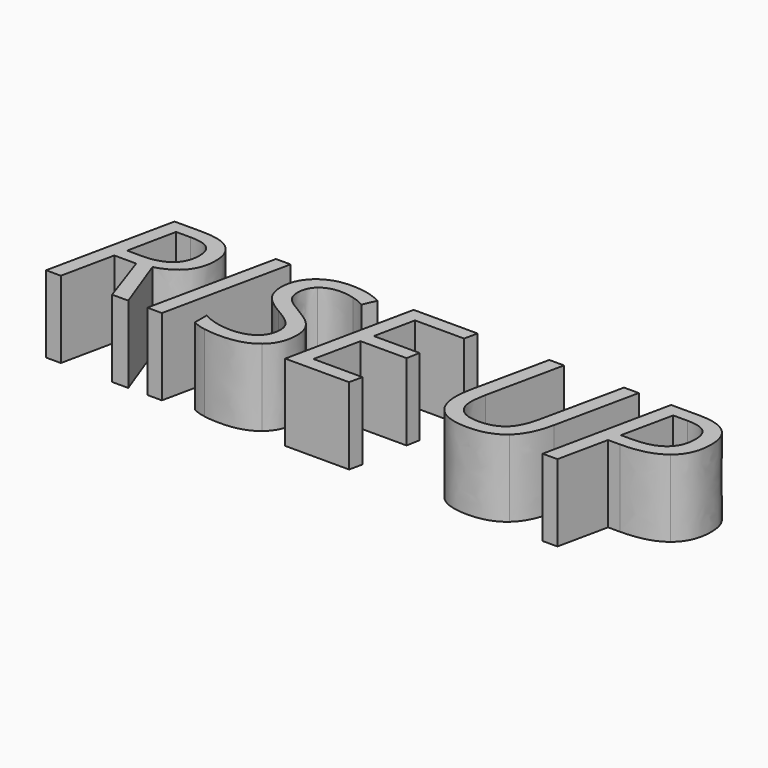
from build123d import *

# Parameters (mm, degrees)
F2_DEPTH = 25.4


with BuildPart() as f2:
    # F1 (on face) → F2 (new body)
    with BuildSketch(Plane.XY):
        Polygon((90.3345299513, -0.3582152179), (81.4709995595, -42.3245057464), (102.5689573936, -42.3245057464), (103.5150129691, -37.9616280924), (87.2942931019, -37.9616280924), (90.564155091, -22.5767437336), (105.7561543324, -22.5767437336), (106.5828048352, -18.2138660797), (91.4551006329, -18.2138660797), (94.2748973482, -4.7486478886), (110.5139872266, -4.7486478886), (111.4324877854, -0.3582152179), align=None)
    extrude(amount=F2_DEPTH)


with BuildPart() as f2b:
    # F1 (on face) → F2, piece 2 (new body)
    with BuildSketch(Plane.XY):
        with BuildLine():
            add(Edge.make_bspline(
                [(75.6936310451, -30.1543733432), (75.6936310451, -36.2072920252), (71.6614135923, -39.5552265618)],
                knots=[0, 0, 0, 1, 1, 1], degree=2))
            add(Edge.make_bspline(
                [(74.9358680841, -26.1221558903), (75.6936310451, -27.8581219463), (75.6936310451, -30.1543733432)],
                knots=[0, 0, 0, 1, 1, 1], degree=2))
            add(Edge.make_bspline(
                [(72.6993192236, -22.9487364599), (74.1781051232, -24.3861898343), (74.9358680841, -26.1221558903)],
                knots=[0, 0, 0, 1, 1, 1], degree=2))
            add(Edge.make_bspline(
                [(66.9954307539, -18.985406549), (71.2205333241, -21.5112830855), (72.6993192236, -22.9487364599)],
                knots=[0, 0, 0, 1, 1, 1], degree=2))
            add(Edge.make_bspline(
                [(62.9218807759, -16.2620523923), (63.9827489213, -17.2402554874), (66.9954307539, -18.985406549)],
                knots=[0, 0, 0, 1, 1, 1], degree=2))
            add(Edge.make_bspline(
                [(61.3742073345, -14.1816486268), (61.8610126306, -15.2838492973), (62.9218807759, -16.2620523923)],
                knots=[0, 0, 0, 1, 1, 1], degree=2))
            add(Edge.make_bspline(
                [(60.8874020383, -11.5271820121), (60.8874020383, -13.0794479563), (61.3742073345, -14.1816486268)],
                knots=[0, 0, 0, 1, 1, 1], degree=2))
            add(Edge.make_bspline(
                [(63.2249859603, -6.1172137212), (60.8874020383, -8.1103599336), (60.8874020383, -11.5271820121)],
                knots=[0, 0, 0, 1, 1, 1], degree=2))
            add(Edge.make_bspline(
                [(69.4110872234, -4.1240675087), (65.5625698823, -4.1240675087), (63.2249859603, -6.1172137212)],
                knots=[0, 0, 0, 1, 1, 1], degree=2))
            add(Edge.make_bspline(
                [(73.7418173578, -4.7532403914), (71.3858634246, -4.1240675087), (69.4110872234, -4.1240675087)],
                knots=[0, 0, 0, 1, 1, 1], degree=2))
            add(Edge.make_bspline(
                [(77.9898824419, -6.4754289391), (76.0977712909, -5.3824132742), (73.7418173578, -4.7532403914)],
                knots=[0, 0, 0, 1, 1, 1], degree=2))
            Line((77.9898824419, -6.4754289391), (79.8819935929, -2.1676613186))
            add(Edge.make_bspline(
                [(74.7062429445, -0.3031051844), (77.1632319391, -0.845020514), (79.8819935929, -2.1676613186)],
                knots=[0, 0, 0, 1, 1, 1], degree=2))
            add(Edge.make_bspline(
                [(69.4110872234, 0.2388101453), (72.2492539498, 0.2388101453), (74.7062429445, -0.3031051844)],
                knots=[0, 0, 0, 1, 1, 1], degree=2))
            add(Edge.make_bspline(
                [(59.4499486639, -3.1320869053), (63.2387634687, 0.2388101453), (69.4110872234, 0.2388101453)],
                knots=[0, 0, 0, 1, 1, 1], degree=2))
            add(Edge.make_bspline(
                [(55.6611338592, -11.8670272188), (55.6611338592, -6.5029839558), (59.4499486639, -3.1320869053)],
                knots=[0, 0, 0, 1, 1, 1], degree=2))
            add(Edge.make_bspline(
                [(57.3419898816, -17.6398032304), (55.6611338592, -15.201184247), (55.6611338592, -11.8670272188)],
                knots=[0, 0, 0, 1, 1, 1], degree=2))
            add(Edge.make_bspline(
                [(63.3489835357, -22.5216337001), (59.0228459041, -20.0784222139), (57.3419898816, -17.6398032304)],
                knots=[0, 0, 0, 1, 1, 1], degree=2))
            add(Edge.make_bspline(
                [(68.9610219496, -26.5538511529), (67.4546810333, -24.8454401137), (63.3489835357, -22.5216337001)],
                knots=[0, 0, 0, 1, 1, 1], degree=2))
            add(Edge.make_bspline(
                [(70.4673628659, -30.4942185499), (70.4673628659, -28.2622621922), (68.9610219496, -26.5538511529)],
                knots=[0, 0, 0, 1, 1, 1], degree=2))
            add(Edge.make_bspline(
                [(67.7440087093, -36.4552871761), (70.4673628659, -34.2876258575), (70.4673628659, -30.4942185499)],
                knots=[0, 0, 0, 1, 1, 1], degree=2))
            add(Edge.make_bspline(
                [(60.3638567199, -38.6229484947), (65.0206545526, -38.6229484947), (67.7440087093, -36.4552871761)],
                knots=[0, 0, 0, 1, 1, 1], degree=2))
            add(Edge.make_bspline(
                [(50.6093807861, -36.2072920252), (55.2569936133, -38.6229484947), (60.3638567199, -38.6229484947)],
                knots=[0, 0, 0, 1, 1, 1], degree=2))
            Line((50.6093807861, -36.2072920252), (50.6093807861, -41.0937149977))
            add(Edge.make_bspline(
                [(54.9584809317, -42.4852433441), (52.6484520265, -42.0673255899), (50.6093807861, -41.0937149977)],
                knots=[0, 0, 0, 1, 1, 1], degree=2))
            add(Edge.make_bspline(
                [(60.3087466863, -42.9031610984), (57.2685098369, -42.9031610984), (54.9584809317, -42.4852433441)],
                knots=[0, 0, 0, 1, 1, 1], degree=2))
            add(Edge.make_bspline(
                [(71.6614135923, -39.5552265618), (67.6291961394, -42.9031610984), (60.3087466863, -42.9031610984)],
                knots=[0, 0, 0, 1, 1, 1], degree=2))
        make_face()
    extrude(amount=F2_DEPTH)


with BuildPart() as f2c:
    # F1 (on face) → F2, piece 3 (new body)
    with BuildSketch(Plane.XY):
        Polygon((49.6633252106, -0.3582152179), (44.8411972773, -0.3582152179), (35.9133718464, -42.3245057464), (40.7354997798, -42.3245057464), align=None)
    extrude(amount=F2_DEPTH)


with BuildPart() as f2d:
    # F1 (on face) → F2, piece 4 (new body)
    with BuildSketch(Plane.XY):
        with BuildLine():
            add(Edge.make_bspline(
                [(158.8271166159, -28.087747086), (157.2472956549, -35.6378216788), (153.1599681685, -39.2704913886)],
                knots=[0, 0, 0, 1, 1, 1], degree=2))
            Line((158.8271166159, -28.087747086), (164.7147051974, -0.3582152179))
            Line((164.7147051974, -0.3582152179), (159.8374672305, -0.3582152179))
            Line((159.8374672305, -0.3582152179), (153.949878649, -27.7387168737))
            add(Edge.make_bspline(
                [(149.9498087158, -36.055739433), (152.6915328836, -33.5436404049), (153.949878649, -27.7387168737)],
                knots=[0, 0, 0, 1, 1, 1], degree=2))
            add(Edge.make_bspline(
                [(142.266551542, -38.5678384612), (147.208084548, -38.5678384612), (149.9498087158, -36.055739433)],
                knots=[0, 0, 0, 1, 1, 1], degree=2))
            add(Edge.make_bspline(
                [(136.011562737, -36.6298022822), (138.1057440109, -38.5678384612), (142.266551542, -38.5678384612)],
                knots=[0, 0, 0, 1, 1, 1], degree=2))
            add(Edge.make_bspline(
                [(133.9173814631, -31.3300540583), (133.9173814631, -34.6917661033), (136.011562737, -36.6298022822)],
                knots=[0, 0, 0, 1, 1, 1], degree=2))
            add(Edge.make_bspline(
                [(134.5511468486, -25.9384557786), (133.9173814631, -28.978692628), (133.9173814631, -31.3300540583)],
                knots=[0, 0, 0, 1, 1, 1], degree=2))
            Line((134.5511468486, -25.9384557786), (140.0254101787, -0.3582152179))
            Line((140.0254101787, -0.3582152179), (135.1481722118, -0.3582152179))
            Line((135.1481722118, -0.3582152179), (129.7290189153, -25.5618705495))
            add(Edge.make_bspline(
                [(129.0401434962, -31.3300540583), (129.0401434962, -29.0062476448), (129.7290189153, -25.5618705495)],
                knots=[0, 0, 0, 1, 1, 1], degree=2))
            add(Edge.make_bspline(
                [(132.2227479322, -39.9134417797), (129.0401434962, -36.923722461), (129.0401434962, -31.3300540583)],
                knots=[0, 0, 0, 1, 1, 1], degree=2))
            add(Edge.make_bspline(
                [(142.0093713855, -42.9031610984), (135.4053523683, -42.9031610984), (132.2227479322, -39.9134417797)],
                knots=[0, 0, 0, 1, 1, 1], degree=2))
            add(Edge.make_bspline(
                [(153.1599681685, -39.2704913886), (149.0726406822, -42.9031610984), (142.0093713855, -42.9031610984)],
                knots=[0, 0, 0, 1, 1, 1], degree=2))
        make_face()
    extrude(amount=F2_DEPTH)


with BuildPart() as f2e:
    # F1 (on face) → F2, piece 5 (new body)
    with BuildSketch(Plane.XY):
        with BuildLine():
            Line((2.470766503, -42.3245057464), (7.3480044699, -42.3245057464))
            Line((7.3480044699, -42.3245057464), (11.0495617215, -24.8729951305))
            Line((11.0495617215, -24.8729951305), (18.2873461244, -24.8729951305))
            Line((18.2873461244, -24.8729951305), (24.2851547729, -42.3245057464))
            Line((24.2851547729, -42.3245057464), (29.6216430191, -42.3245057464))
            Line((29.6216430191, -42.3245057464), (22.7604438454, -23.7524244488))
            add(Edge.make_bspline(
                [(33.3232002708, -10.8658616098), (33.3232002708, -20.8499626832), (22.7604438454, -23.7524244488)],
                knots=[0, 0, 0, 1, 1, 1], degree=2))
            add(Edge.make_bspline(
                [(20.5193024821, -0.3582152179), (33.3232002708, -0.3582152179), (33.3232002708, -10.8658616098)],
                knots=[0, 0, 0, 1, 1, 1], degree=2))
            Line((20.5193024821, -0.3582152179), (11.3342968948, -0.3582152179))
            Line((11.3342968948, -0.3582152179), (2.470766503, -42.3245057464))
        make_face()
        with BuildLine():
            add(Edge.make_bspline(
                [(15.2746642917, -4.6384278216), (12.3446475094, -18.8200764484), (11.9405072635, -20.6846325826)],
                knots=[0, 0, 0, 1, 1, 1], degree=2))
            Line((15.2746642917, -4.6384278216), (20.0324971859, -4.6384278216))
            add(Edge.make_bspline(
                [(26.3334110188, -6.1998787714), (24.3953748399, -4.6384278216), (20.0324971859, -4.6384278216)],
                knots=[0, 0, 0, 1, 1, 1], degree=2))
            add(Edge.make_bspline(
                [(28.2714471978, -11.2424468389), (28.2714471978, -7.7613297213), (26.3334110188, -6.1998787714)],
                knots=[0, 0, 0, 1, 1, 1], degree=2))
            add(Edge.make_bspline(
                [(25.2863203819, -18.2414210964), (28.2714471978, -15.7982096102), (28.2714471978, -11.2424468389)],
                knots=[0, 0, 0, 1, 1, 1], degree=2))
            add(Edge.make_bspline(
                [(16.7626351969, -20.6846325826), (22.301193566, -20.6846325826), (25.2863203819, -18.2414210964)],
                knots=[0, 0, 0, 1, 1, 1], degree=2))
            Line((16.7626351969, -20.6846325826), (11.9405072635, -20.6846325826))
        make_face(mode=Mode.SUBTRACT)
    extrude(amount=F2_DEPTH)


with BuildPart() as f2f:
    # F1 (on face) → F2, piece 6 (new body)
    with BuildSketch(Plane.XY):
        with BuildLine():
            add(Edge.make_bspline(
                [(197.3214750324, -11.1781517998), (197.3214750324, -18.2965311299), (192.6141596689, -22.0577909179)],
                knots=[0, 0, 0, 1, 1, 1], degree=2))
            add(Edge.make_bspline(
                [(194.1618331103, -3.072384369), (197.3214750324, -5.78655352), (197.3214750324, -11.1781517998)],
                knots=[0, 0, 0, 1, 1, 1], degree=2))
            add(Edge.make_bspline(
                [(184.866607456, -0.3582152179), (191.0021911883, -0.3582152179), (194.1618331103, -3.072384369)],
                knots=[0, 0, 0, 1, 1, 1], degree=2))
            Line((184.866607456, -0.3582152179), (175.3876816899, -0.3582152179))
            Line((175.3876816899, -0.3582152179), (166.5241512981, -42.3245057464))
            Line((166.5241512981, -42.3245057464), (171.401389265, -42.3245057464))
            Line((171.401389265, -42.3245057464), (174.9284314105, -25.819050706))
            Line((174.9284314105, -25.819050706), (178.8045037683, -25.819050706))
            add(Edge.make_bspline(
                [(192.6141596689, -22.0577909179), (187.9068443054, -25.819050706), (178.8045037683, -25.819050706)],
                knots=[0, 0, 0, 1, 1, 1], degree=2))
        make_face()
        with BuildLine():
            add(Edge.make_bspline(
                [(179.6403392768, -21.6306881581), (185.8402180482, -21.6306881581), (189.0549700038, -19.0175540685)],
                knots=[0, 0, 0, 1, 1, 1], degree=2))
            Line((179.6403392768, -21.6306881581), (175.8193769525, -21.6306881581))
            Line((175.8193769525, -21.6306881581), (179.4658241706, -4.5833177881))
            Line((179.4658241706, -4.5833177881), (184.1501770202, -4.5833177881))
            add(Edge.make_bspline(
                [(190.2765757469, -6.1723237547), (188.2834295344, -4.5833177881), (184.1501770202, -4.5833177881)],
                knots=[0, 0, 0, 1, 1, 1], degree=2))
            add(Edge.make_bspline(
                [(192.2697219593, -11.3526669059), (192.2697219593, -7.7613297213), (190.2765757469, -6.1723237547)],
                knots=[0, 0, 0, 1, 1, 1], degree=2))
            add(Edge.make_bspline(
                [(189.0549700038, -19.0175540685), (192.2697219593, -16.404419979), (192.2697219593, -11.3526669059)],
                knots=[0, 0, 0, 1, 1, 1], degree=2))
        make_face(mode=Mode.SUBTRACT)
    extrude(amount=F2_DEPTH)


solid = Compound([f2.part, f2b.part, f2c.part, f2d.part, f2e.part, f2f.part])
